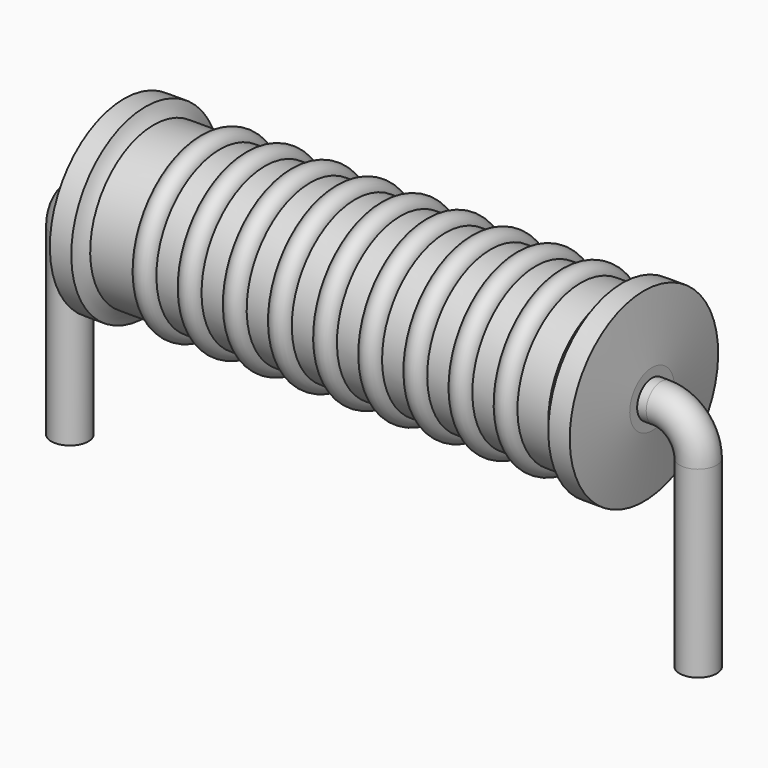
from build123d import *

# Parameters (mm, degrees)
SKETCH_R = 0.45


with BuildPart() as sweep_body:
    # Sweep: sweep along a path in Sketch001
    with BuildLine(Plane.XZ) as sweep_path:
        Line((0, -3), (0, 1.45))
        ThreePointArc((0, 1.45), (0.263601, 2.086393), (0.899993, 2.35))
        Line((0.899993, 2.35), (14.34, 2.35))
        ThreePointArc((14.34, 2.35), (14.976396, 2.086396), (15.24, 1.45))
        Line((15.24, 1.45), (15.24, -3))
    # Sketch → Sweep (sweep)
    with BuildSketch(Plane.XY.offset(-2)):
        Circle(SKETCH_R)
    sweep(path=sweep_path.line)


with BuildPart() as revolution:
    # Sketch002 → Revolution (revolve)
    with BuildSketch(Plane.XZ):
        with BuildLine():
            Line((1.315, 4.6), (1.835, 4.6))
            ThreePointArc((1.835, 4.6), (1.916575, 4.426884), (2.033, 4.275))
            Line((2.033, 4.275), (13.145, 4.275))
            ThreePointArc((13.145, 4.275), (13.291747, 4.424102), (13.405, 4.6))
            Line((13.405, 4.6), (13.925, 4.6))
            ThreePointArc((14.12, 3.025), (14.023869, 3.812669), (13.925, 4.6))
            Line((14.12, 2.35), (14.12, 3.025))
            Line((1.12, 2.35), (14.12, 2.35))
            Line((1.12, 2.35), (1.12, 3.025))
            ThreePointArc((1.315, 4.6), (1.216131, 3.812669), (1.12, 3.025))
        make_face()
    revolve(axis=Axis((1.12, 0, 2.35), (1, 0, 0)))


with BuildPart() as obj1:
    # Sketch003 → Revolution001 (revolve)
    with BuildSketch(Plane.XZ):
        with BuildLine():
            ThreePointArc((3.644737, 4.223), (3.371053, 4.496684), (3.097368, 4.223))
            Line((2.55, 4.223), (3.097368, 4.223))
            Line((2.55, 4.223), (2.55, 3.773))
            Line((2.55, 3.773), (12.95, 3.773))
            Line((12.95, 3.773), (12.95, 4.223))
            Line((12.402632, 4.223), (12.95, 4.223))
            ThreePointArc((12.402632, 4.223), (12.128947, 4.496684), (11.855263, 4.223))
            Line((11.307895, 4.223), (11.855263, 4.223))
            ThreePointArc((11.307895, 4.223), (11.034211, 4.496684), (10.760526, 4.223))
            Line((10.213158, 4.223), (10.760526, 4.223))
            ThreePointArc((10.213158, 4.223), (9.939474, 4.496684), (9.665789, 4.223))
            Line((9.118421, 4.223), (9.665789, 4.223))
            ThreePointArc((9.118421, 4.223), (8.844737, 4.496684), (8.571053, 4.223))
            Line((8.023684, 4.223), (8.571053, 4.223))
            ThreePointArc((8.023684, 4.223), (7.75, 4.496684), (7.476316, 4.223))
            Line((6.928947, 4.223), (7.476316, 4.223))
            ThreePointArc((6.928947, 4.223), (6.655263, 4.496684), (6.381579, 4.223))
            Line((5.834211, 4.223), (6.381579, 4.223))
            ThreePointArc((5.834211, 4.223), (5.560526, 4.496684), (5.286842, 4.223))
            Line((4.739474, 4.223), (5.286842, 4.223))
            ThreePointArc((4.739474, 4.223), (4.465789, 4.496684), (4.192105, 4.223))
            Line((3.644737, 4.223), (4.192105, 4.223))
        make_face()
    revolve(axis=Axis((1.445, 0, 2.35), (1, 0, 0)))

    # obj1: union Sweep body, Revolution
    add(sweep_body.part)
    add(revolution.part)


solid = obj1.part
